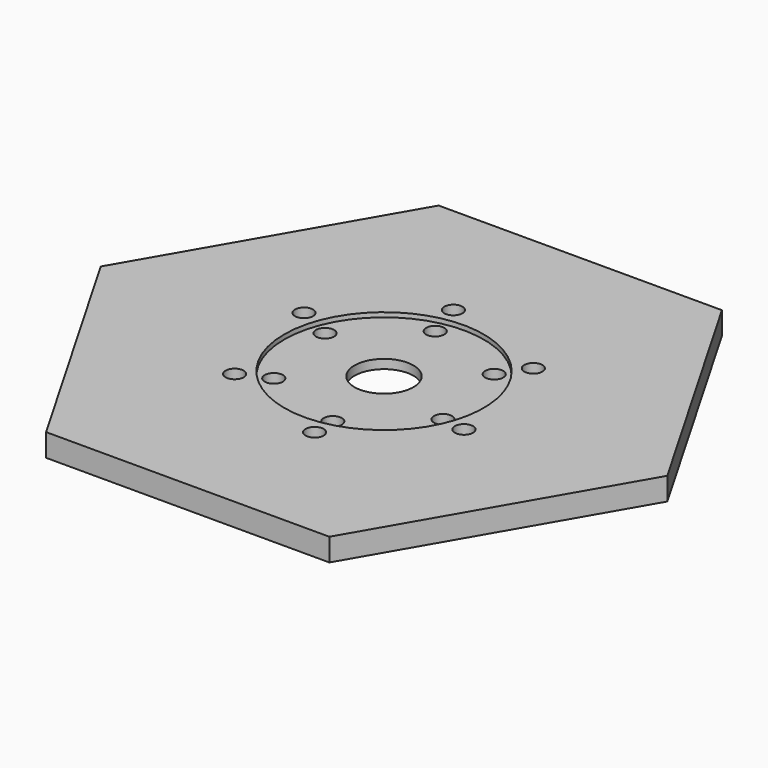
from build123d import *

# Parameters (mm, degrees)
F1_DEPTH = 10
F5_D     = 8
F5_DEPTH = 15
F6_D     = 8
F6_DEPTH = 15


with BuildPart() as f1:
    # F0 (on Top) → F1 (new body)
    with BuildSketch(Plane.XY):
        Polygon((62.5, -108.253175), (125, 0), (62.5, 108.253175), (-62.5, 108.253175), (-125, 0), (-62.5, -108.253175), align=None)
    extrude(amount=F1_DEPTH)

    # F2 (on Front) → F3 (revolve, cut)
    with BuildSketch(Plane.XZ):
        Polygon((-23.5, 4), (-23.5, -10), (0, -10), (0, 18), (-44, 18), (-44, 8), (-13, 8), (-13, 4), align=None)
    revolve(axis=Axis((0, 0, -2.490325), (0, 0, -1)), mode=Mode.SUBTRACT)

    # F5
    with Locations(Plane.XY.offset(10)):
        with Locations((-9.826663, 50.5538), (38.867543, 33.78704), (48.694207, -16.76676), (9.826663, -50.5538), (-38.867543, -33.78704), (-48.694207, 16.76676)):
            Hole(F5_D / 2, depth=F5_DEPTH)

    # F6
    with Locations(Plane.XY.offset(10)):
        with Locations((-7.250742, 37.301833), (28.678964, 24.930243), (35.929706, -12.37159), (7.250742, -37.301833), (-28.678964, -24.930243), (-35.929706, 12.37159)):
            Hole(F6_D / 2, depth=F6_DEPTH)


solid = f1.part
